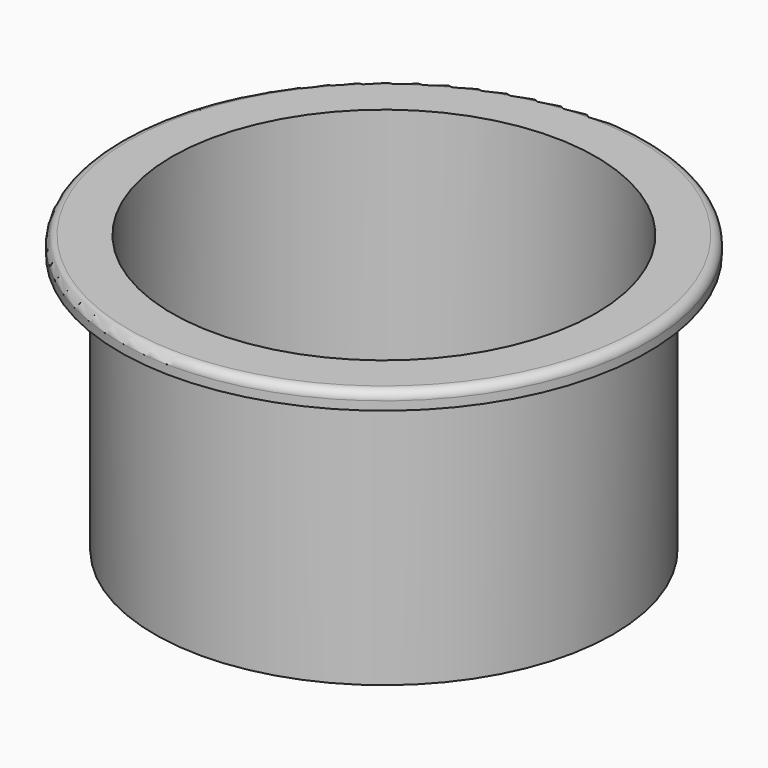
from build123d import *

# Parameters (mm, degrees)
F2_R = 1


with BuildPart() as f1:
    # F0 (on Front) → F1 (revolve)
    with BuildSketch(Plane.XZ):
        Polygon((0, -30), (-24.5, -30), (-24.5, 0), (-30.5, 0), (-30.5, -2), (-26.5, -2), (-26.5, -32), (0, -32), align=None)
    revolve(axis=Axis((0, 0, -26.37106), (0, 0, -1)))

    # F2
    f2_edges = [f1.edges().sort_by_distance(p)[0] for p in [
        (30.5, 0, 0),
    ]]
    fillet(f2_edges, radius=F2_R)


solid = f1.part
